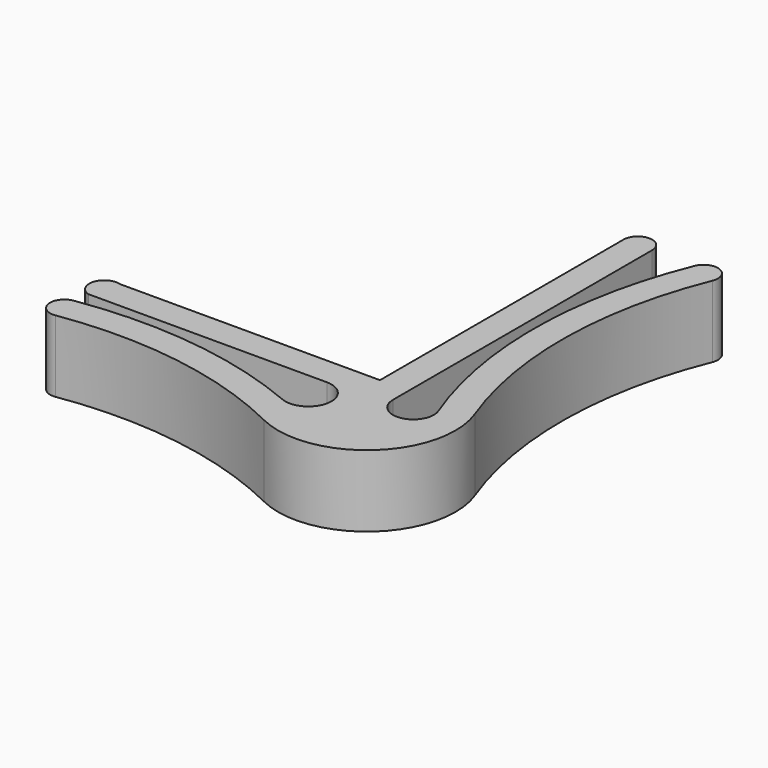
from build123d import *

# Parameters (mm, degrees)
F1_DEPTH = 10


with BuildPart() as f1:
    # F0 (on Top) → F1 (new body)
    with BuildSketch(Plane.XY):
        with BuildLine():
            Line((0, 9.367097), (0, -21.861747))
            Line((0, -21.861747), (0, -33.075608))
            Line((0, -33.075608), (-7.774998, -33.075608))
            Line((-7.774998, -33.075608), (-36.231046, -33.075608))
            ThreePointArc((-36.231046, -33.075608), (-38.847091, -34.459563), (-37.463136, -37.075608))
            Line((-37.463136, -37.075608), (-4.212255, -37.075608))
            ThreePointArc((-4.212255, -37.075608), (-1.063184, -40.921843), (-5.455275, -43.249869))
            ThreePointArc((-5.455275, -43.249869), (-21.33558, -39.025945), (-37.766244, -39.268671))
            ThreePointArc((-37.766244, -39.268671), (-39.440034, -41.548677), (-37.160028, -43.222466))
            ThreePointArc((-37.160028, -43.222466), (-20.179532, -43.223453), (-3.979961, -48.313754))
            ThreePointArc((-3.979961, -48.313754), (9.782393, -46.376837), (13.059296, -32.870693))
            ThreePointArc((13.059296, -32.870693), (9.505329, -12.45194), (13.621279, 7.86099))
            ThreePointArc((13.621279, 7.86099), (12.521521, 10.466855), (9.915656, 9.367097))
            ThreePointArc((9.915656, 9.367097), (5.50253, -12.67357), (9.510159, -34.791563))
            ThreePointArc((9.510159, -34.791563), (7.37139, -38.618418), (4, -35.816117))
            Line((4, -35.816117), (4, 9.367097))
            ThreePointArc((4, 9.367097), (2, 11.367097), (0, 9.367097))
        make_face()
    extrude(amount=F1_DEPTH)


solid = f1.part
